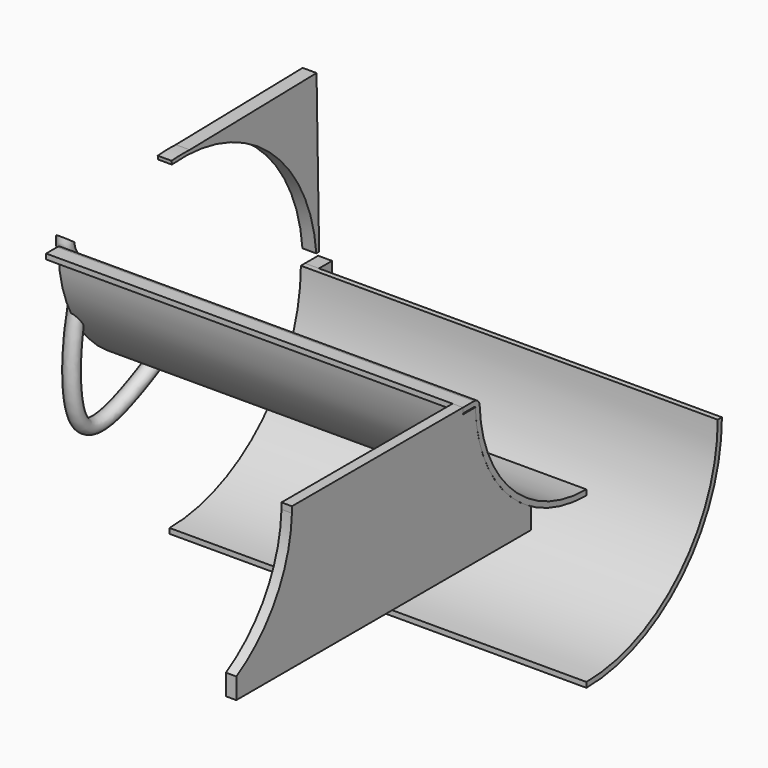
from build123d import *

# Parameters (mm, degrees)
F1_DEPTH  = 762
F3_DEPTH  = 25.4
F5_DEPTH  = 25.4
F7_R      = 14.058836882
F10_DEPTH = 25.4
F11_W     = 25.4
F11_H     = 9.525
F12_DEPTH = 762
F14_DEPTH = 19.05


with BuildPart() as f1:
    # F0 (on Right) → F1 (new body)
    with BuildSketch(Plane.YZ):
        with BuildLine():
            Line((309.5625, 0), (300.0375, 0))
            ThreePointArc((300.0375, 0), (212.1585508603, -212.1585508603), (0, -300.0375))
            Line((0, -300.0375), (0, -309.5625))
            ThreePointArc((0, -309.5625), (218.8937429511, -218.8937429511), (309.5625, 0))
        make_face()
    extrude(amount=F1_DEPTH)


with BuildPart() as f3:
    # F2 (on Right) → F3 (new body)
    with BuildSketch(Plane.YZ):
        with BuildLine():
            ThreePointArc((-26.4594648625, 303.6493647601), (196.002857894, 233.4221919557), (303.6493647601, 26.4594648625))
            Line((303.6493647601, 26.4594648625), (309.9753931926, 27.0107037138))
            ThreePointArc((309.9753931926, 27.0107037138), (200.0862507668, 238.2851542881), (-27.0107037138, 309.9753931926))
            Line((-27.0107037138, 309.9753931926), (-26.4594648625, 303.6493647601))
        make_face()
    extrude(amount=F3_DEPTH)

    # F4 (on face) → F5 (join)
    with BuildSketch(Plane.YZ.offset(25.4)):
        with BuildLine():
            ThreePointArc((14.4017959028, 310.8165226863), (215.5030763632, 224.4387368036), (309.9753931926, 27.0107037138))
            Line((309.9753931926, 27.0107037138), (304.0915040339, 316.7004118449))
            Line((304.0915040339, 316.7004118449), (14.4017959028, 310.8165226863))
        make_face()
    extrude(amount=-F5_DEPTH)


with BuildPart() as f8:
    # F8: sweep along a path in F6
    with BuildLine(Plane.YZ) as f8_path:
        add(Plane.YZ * Edge.make_bspline(
            [(0, 0), (-86.5811547172, -47.2866635671), (-230.1175587572, -116.7563055821), (-225.2096979585, 104.5112167582), (-203.5154602271, 157.8235998858), (-222.1693528222, 225.2381372065), (-239.8794464893, 246.6602765606), (-237.8969937563, 262.0359957218)],
            knots=[0, 0, 0, 0, 0.2920252666, 0.5439171262, 0.7087896431, 0.8695782154, 1, 1, 1, 1], degree=3))
    # F7 (on Front) → F8 (sweep)
    with BuildSketch(Plane.XZ):
        Circle(F7_R)
    sweep(path=f8_path.line)


with BuildPart() as f10:
    # F9 (on face) → F10 (new body)
    with BuildSketch(Plane(origin=(0, 0, 0), x_dir=(0, -1, 0), z_dir=(-1, 0, 0))):
        with BuildLine():
            Line((-339.5244552609, -309.5625), (0, -309.5625))
            ThreePointArc((0, -309.5625), (-218.8937429511, -218.8937429511), (-309.5625, 0))
            Line((-309.5625, 0), (-339.5244552609, 0))
            Line((-339.5244552609, 0), (-339.5244552609, -309.5625))
        make_face()
    extrude(amount=-F10_DEPTH)


with BuildPart() as f12:
    # F11 (on Right) → F12 (new body)
    with BuildSketch(Plane.YZ):
        with BuildLine():
            Line((-244.0212887158, 245.0157544993), (-253.8399534826, 244.9845679012))
            ThreePointArc((-253.8399534826, 244.9845679012), (-176.3888888889, 71.2352334925), (0, 0))
            Line((0, 0), (0, 9.8133787167))
            ThreePointArc((0, 9.8133787167), (-169.4598381036, 78.1862653725), (-244.0212887158, 245.0157544993))
        make_face()
        with BuildLine():
            ThreePointArc((-256.722471, 246.7052992387), (-255.0439431053, 246.242399709), (-253.8399534826, 244.9845679012))
            Line((-253.8399534826, 244.9845679012), (-244.0212887158, 245.0157544993))
            ThreePointArc((-244.0212887158, 245.0157544993), (-248.2506641513, 253.0254380217), (-256.722471, 256.2302992387))
            Line((-256.722471, 256.2302992387), (-256.722471, 246.7052992387))
        make_face()
        with Locations((-269.422471, 251.4677992387)):
            Rectangle(F11_W, F11_H)
    extrude(amount=F12_DEPTH)


with BuildPart() as f14:
    # F13 (on face) → F14 (new body)
    with BuildSketch(Plane.YZ.offset(762)):
        with BuildLine():
            ThreePointArc((-126.8399534826, 33.9372221376), (-217.633966628, 123.0364303718), (-253.8399534826, 244.9845679012))
            Line((-253.8399534826, 244.9845679012), (-253.8399534826, -4.1627778624))
            Line((-253.8399534826, -4.1627778624), (-126.8399534826, -4.1627778624))
            Line((-126.8399534826, -4.1627778624), (-126.8399534826, 33.9372221376))
        make_face()
        Polygon((-253.8399534826, -4.1627778624), (-253.8399534826, 244.9845679012), (-282.122471, 244.9845679012), (-282.122471, 256.2302992387), (-463.3899534826, 256.2302992387), (-463.3899534826, -4.1627778624), align=None)
        Polygon((-672.9399534826, -4.1627778624), (-463.3899534826, -4.1627778624), (-463.3899534826, 256.2302992387), (-644.6574359654, 256.2302992387), (-672.9399534826, 256.2302992387), (-672.9399534826, 244.9845679012), align=None)
        with BuildLine():
            Line((-799.9399534826, -4.1627778624), (-672.9399534826, -4.1627778624))
            Line((-672.9399534826, -4.1627778624), (-672.9399534826, 244.9845679012))
            ThreePointArc((-672.9399534826, 244.9845679012), (-709.1459403373, 123.0364303718), (-799.9399534826, 33.9372221376))
            Line((-799.9399534826, 33.9372221376), (-799.9399534826, -4.1627778624))
        make_face()
        Polygon((-253.8399534826, -4.1627778624), (-253.8399534826, 244.9845679012), (-282.122471, 244.9845679012), (-282.122471, 246.7052992387), (-282.122471, 256.2302992387), (-463.3899534826, 256.2302992387), (-463.3899534826, -4.1627778624), align=None)
    extrude(amount=-F14_DEPTH)


solid = Compound([f1.part, f3.part, f8.part, f10.part, f12.part, f14.part])
